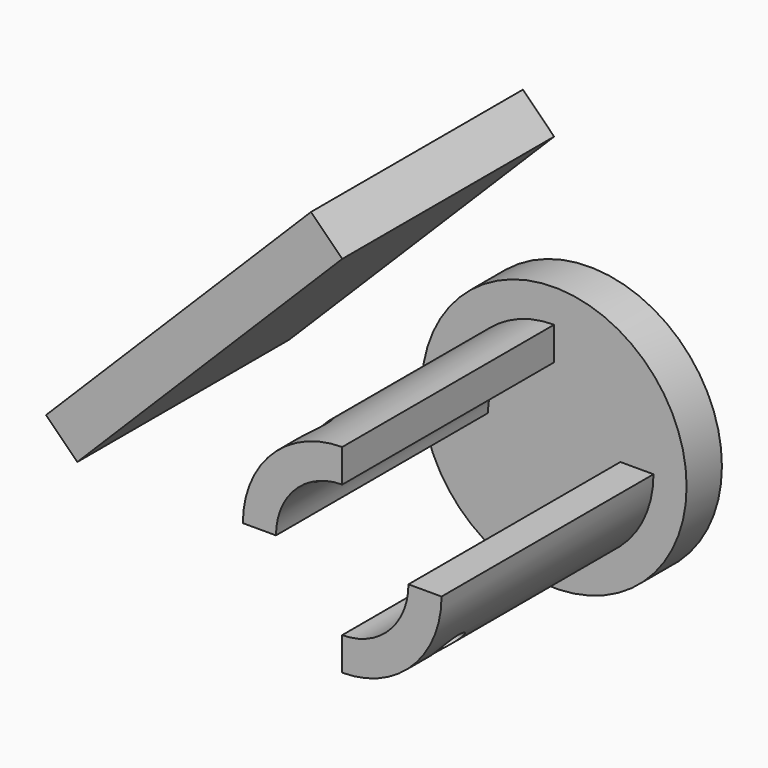
from build123d import *

# Parameters (mm, degrees)
F1_DEPTH = 60
F0_R     = 30
F2_DEPTH = 10
F4_DEPTH = 60
F6_DEPTH = 75
F7_DEPTH = 21.42641


with BuildPart() as f1:
    # F0 (on Front) → F1 (new body)
    with BuildSketch(Plane.XZ):
        with BuildLine():
            ThreePointArc((-15, 0), (-10.6066017178, 10.6066017178), (0, 15))
            Line((0, 15), (0, 22.5))
            ThreePointArc((0, 22.5), (-15.9099025767, 15.9099025767), (-22.5, 0))
            Line((-22.5, 0), (-15, 0))
        make_face()
    extrude(amount=F1_DEPTH)


with BuildPart() as f1b:
    # F0 (on Front) → F1, piece 2 (new body)
    with BuildSketch(Plane.XZ):
        with BuildLine():
            ThreePointArc((15, 0), (10.6066017178, -10.6066017178), (0, -15))
            Line((0, -15), (0, -22.5))
            ThreePointArc((0, -22.5), (15.9099025767, -15.9099025767), (22.5, 0))
            Line((22.5, 0), (15, 0))
        make_face()
    extrude(amount=F1_DEPTH)


with BuildPart() as f2:
    # F0 (on Front) → F2 (new body)
    with BuildSketch(Plane.XZ):
        Circle(F0_R)
        with BuildLine():
            Line((0, -22.5), (0, -15))
            ThreePointArc((0, -15), (10.6066017178, -10.6066017178), (15, 0))
            Line((15, 0), (22.5, 0))
            ThreePointArc((22.5, 0), (15.9099025767, -15.9099025767), (0, -22.5))
        make_face(mode=Mode.SUBTRACT)
        with BuildLine():
            Line((0, 22.5), (0, 15))
            ThreePointArc((0, 15), (-10.6066017178, 10.6066017178), (-15, 0))
            Line((-15, 0), (-22.5, 0))
            ThreePointArc((-22.5, 0), (-15.9099025767, 15.9099025767), (0, 22.5))
        make_face(mode=Mode.SUBTRACT)
        with BuildLine():
            ThreePointArc((-15, 0), (-10.6066017178, 10.6066017178), (0, 15))
            Line((0, 15), (0, 22.5))
            ThreePointArc((0, 22.5), (-15.9099025767, 15.9099025767), (-22.5, 0))
            Line((-22.5, 0), (-15, 0))
        make_face()
        with BuildLine():
            ThreePointArc((15, 0), (10.6066017178, -10.6066017178), (0, -15))
            Line((0, -15), (0, -22.5))
            ThreePointArc((0, -22.5), (15.9099025767, -15.9099025767), (22.5, 0))
            Line((22.5, 0), (15, 0))
        make_face()
    extrude(amount=-F2_DEPTH)


with BuildPart() as f4:
    # F3 (on Front) → F4 (new body)
    with BuildSketch(Plane.XZ):
        Polygon((-30, 30), (0, 60), (-7.0710678119, 67.0710678119), (-67.0710678119, 7.0710678119), (-60, 0), align=None)
    extrude(amount=F4_DEPTH)


with BuildPart() as f6_tool:
    # F5 (on face) → F6 (new body)
    with BuildSketch(Plane(origin=(-30, 0, 30), x_dir=(0, 1, 0), z_dir=(0.7071067812, 0, -0.7071067812))):
        with BuildLine():
            Line((-46.25, 0), (-53.75, 0))
            ThreePointArc((-53.75, 0), (-50, -3.75), (-46.25, 0))
        make_face()
        with BuildLine():
            ThreePointArc((-46.25, 0), (-50, 3.75), (-53.75, 0))
            Line((-53.75, 0), (-46.25, 0))
        make_face()
    extrude(amount=F6_DEPTH)


with BuildPart() as f1_1:
    add(f1.part)

    # F6: cut by f6_tool
    add(f6_tool.part, mode=Mode.SUBTRACT)

    # F5 (on face) → F7 (cut)
    with BuildSketch(Plane(origin=(-30, 0, 30), x_dir=(0, 1, 0), z_dir=(0.7071067812, 0, -0.7071067812))):
        with BuildLine():
            ThreePointArc((-44.75, 0), (-50, 5.25), (-55.25, 0))
            Line((-55.25, 0), (-53.75, 0))
            ThreePointArc((-53.75, 0), (-50, 3.75), (-46.25, 0))
            Line((-46.25, 0), (-44.75, 0))
        make_face()
        with BuildLine():
            Line((-53.75, 0), (-55.25, 0))
            ThreePointArc((-55.25, 0), (-50, -5.25), (-44.75, 0))
            Line((-44.75, 0), (-46.25, 0))
            ThreePointArc((-46.25, 0), (-50, -3.75), (-53.75, 0))
        make_face()
    extrude(amount=F7_DEPTH, mode=Mode.SUBTRACT)


with BuildPart() as f1b_1:
    add(f1b.part)

    # F6: cut by f6_tool
    add(f6_tool.part, mode=Mode.SUBTRACT)


solid = Compound([f2.part, f4.part, f1_1.part, f1b_1.part])
